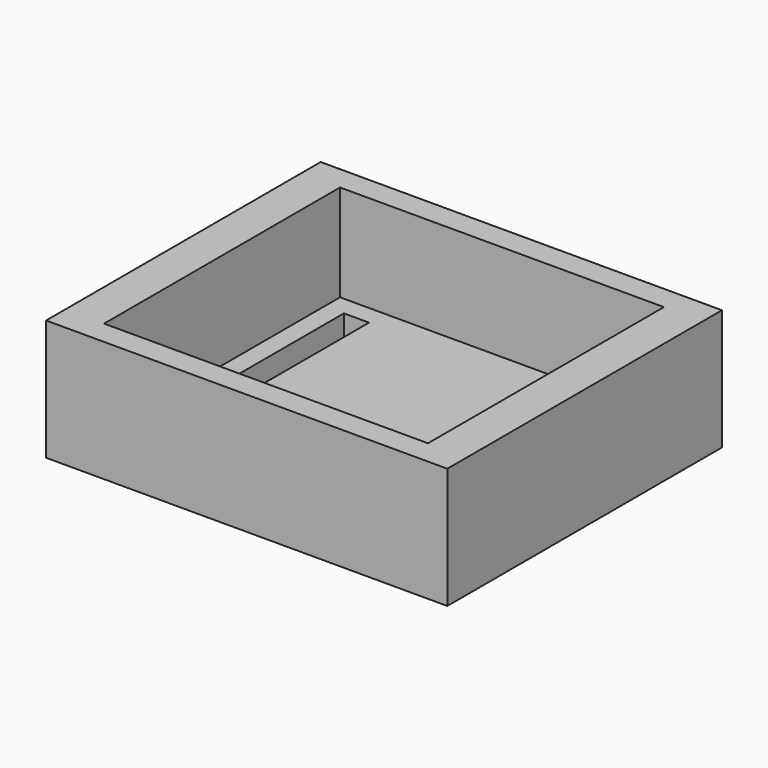
from build123d import *

# Parameters (mm, degrees)
F0_W     = 83
F0_H     = 71
F1_DEPTH = 25
F2_W     = 67
F2_H     = 61
F3_DEPTH = 20
F4_W     = 5.2
F4_H     = 52
F5_DEPTH = 25.001


with BuildPart() as f1:
    # F0 (on Top) → F1 (new body)
    with BuildSketch(Plane.XY):
        Rectangle(F0_W, F0_H)
    extrude(amount=F1_DEPTH)

    # F2 (on face) → F3 (cut)
    with BuildSketch(Plane.XY.offset(25)):
        Rectangle(F2_W, F2_H)
    extrude(amount=-F3_DEPTH, mode=Mode.SUBTRACT)

    # F4 (on Top) → F5 (cut, through all)
    with BuildSketch(Plane.XY):
        with Locations((-26.9, 0.5)):
            Rectangle(F4_W, F4_H)
    extrude(amount=F5_DEPTH, mode=Mode.SUBTRACT)


solid = f1.part
